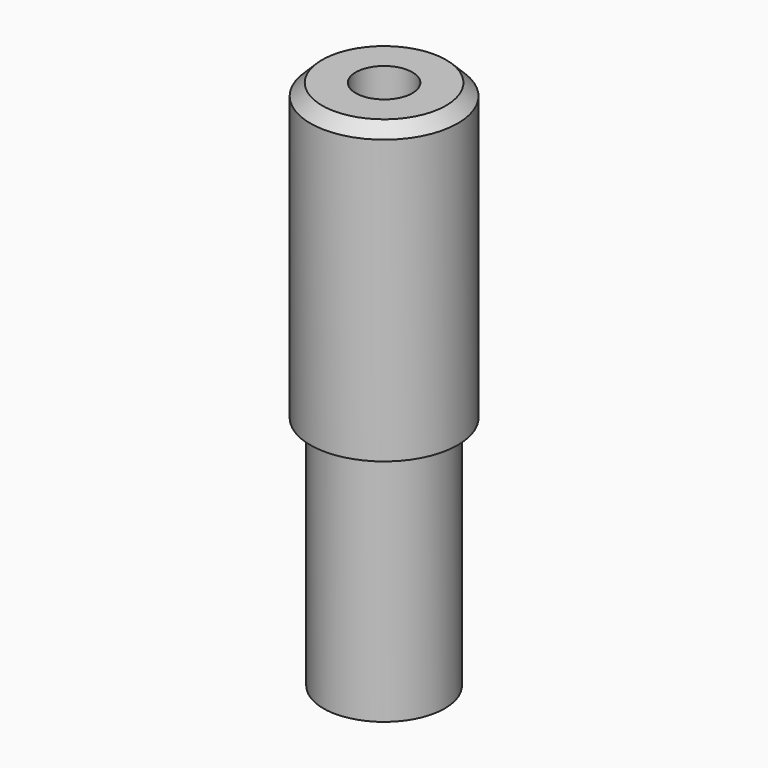
from build123d import *

# Parameters (mm, degrees)
F0_R     = 6.5405
F0_R_2   = 3.048
F1_DEPTH = 25.4
F3_START = 25.4
F2_R     = 7.9375
F2_R_2   = 3.048
F3_DEPTH = 31.75
F4_SIZE  = 1.27


with BuildPart() as f1:
    # F0 (on Top) → F1 (new body)
    with BuildSketch(Plane.XY):
        Circle(F0_R)
        Circle(F0_R_2, mode=Mode.SUBTRACT)
    extrude(amount=F1_DEPTH)

    # F2 (on Top) → F3 (join)
    with BuildSketch(Plane.XY.offset(F3_START)):
        Circle(F2_R)
        Circle(F2_R_2, mode=Mode.SUBTRACT)
    extrude(amount=F3_DEPTH)

    # F4
    f4_edges = [f1.edges().sort_by_distance(p)[0] for p in [
        (-7.9375, 0, 57.15),
    ]]
    chamfer(f4_edges, length=F4_SIZE)


solid = f1.part
